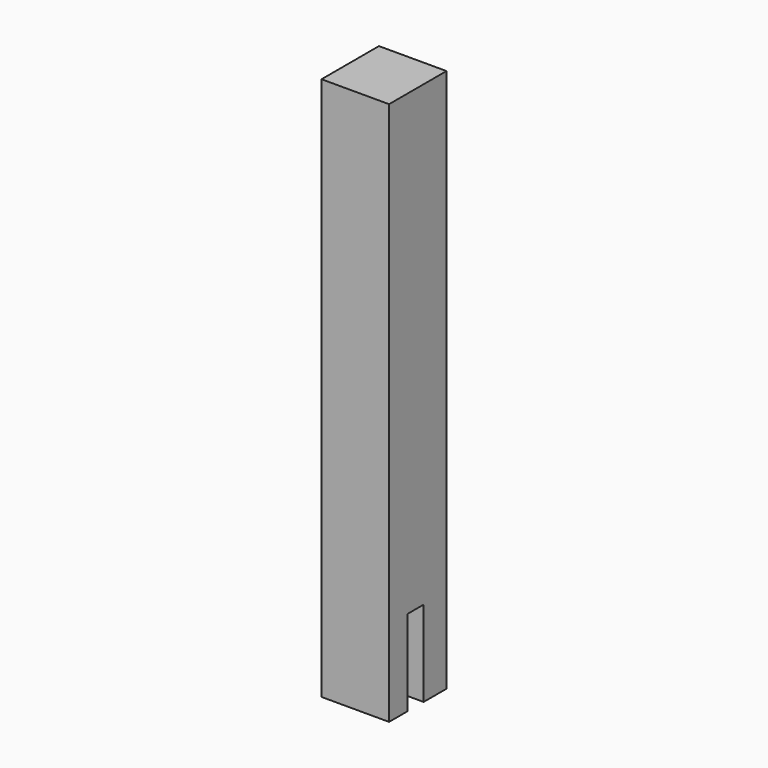
from build123d import *

# Parameters (mm, degrees)
F0_W     = 47.3273731768
F0_H     = 50.2853244543
F1_DEPTH = 381
F2_W     = 14.1982100904
F2_H     = 60.0415617228
F3_DEPTH = 47.3273731768


with BuildPart() as f1:
    # F0 (on Top) → F1 (new body)
    with BuildSketch(Plane.XY):
        with Locations((23.6636865884, 25.1426622272)):
            Rectangle(F0_W, F0_H)
    extrude(amount=F1_DEPTH)

    # F2 (on face) → F3 (cut, through all)
    with BuildSketch(Plane.YZ.offset(47.3273731768)):
        with Locations((23.1769923121, 30.0207808614)):
            Rectangle(F2_W, F2_H)
    extrude(amount=-F3_DEPTH, mode=Mode.SUBTRACT)


solid = f1.part
